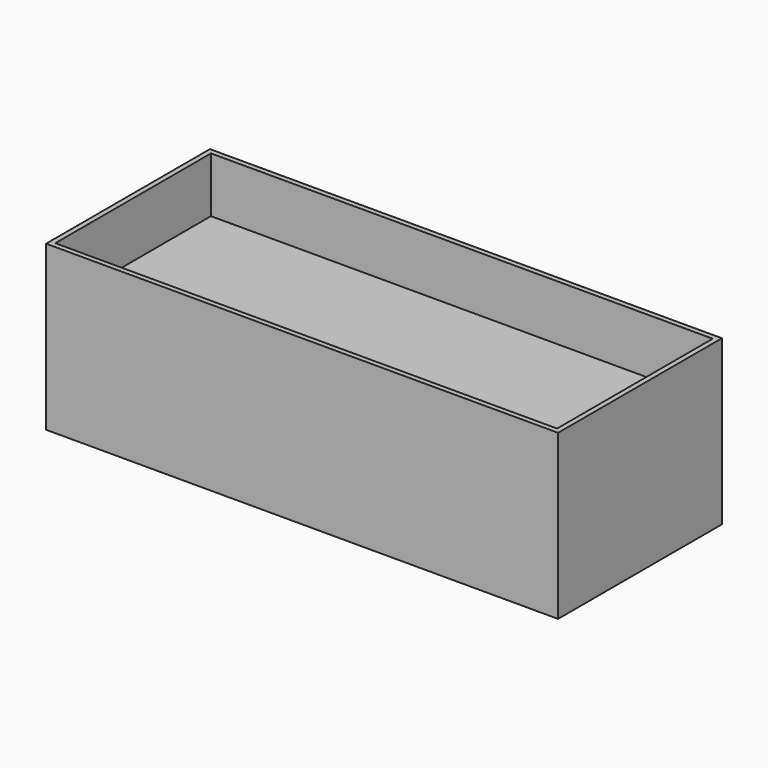
from build123d import *

# Parameters (mm, degrees)
F0_W     = 100
F0_H     = 40
F1_DEPTH = 32
F2_T     = -1
F3_W     = 38
F3_H     = 0.2
F4_DEPTH = 98


with BuildPart() as f1:
    # F0 (on Top) → F1 (new body)
    with BuildSketch(Plane.XY):
        Rectangle(F0_W, F0_H)
    extrude(amount=F1_DEPTH)

    # F2
    f2_openings = [f1.faces().sort_by_distance(p)[0] for p in [
        (0, 0, 32),
    ]]
    offset(amount=F2_T, openings=f2_openings)

    # F3 (on face) → F4 (join, through all)
    with BuildSketch(Plane.YZ.offset(-49)):
        with Locations((0, 21.1)):
            Rectangle(F3_W, F3_H)
    extrude(amount=F4_DEPTH)


solid = f1.part
